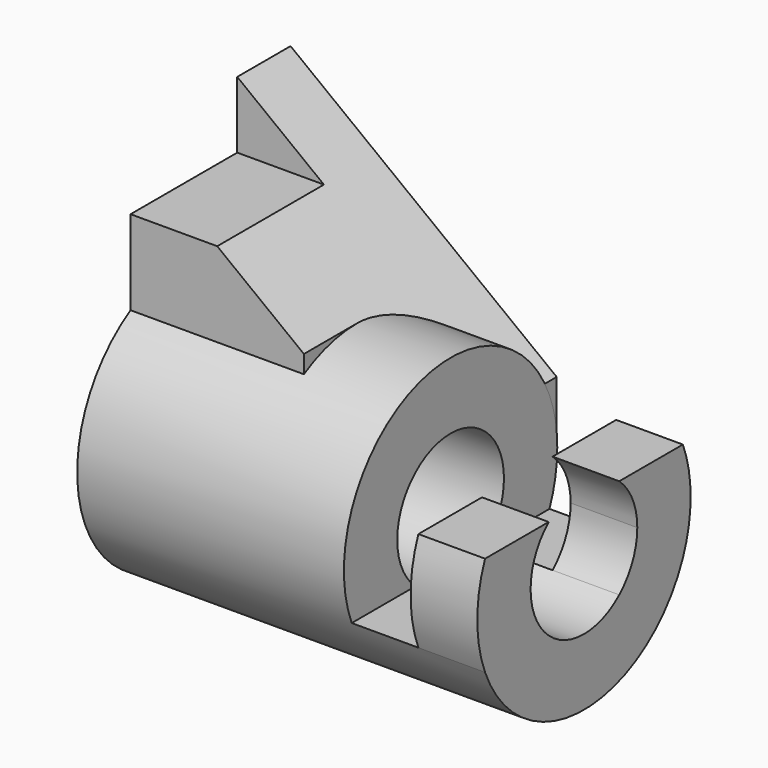
from build123d import *

# Parameters (mm, degrees)
F1_DEPTH = 50.8
F2_DEPTH = 63.5
F3_DEPTH = 33.02
F5_DEPTH = 50.801
F6_DEPTH = 50.8
F8_DEPTH = 12.7


with BuildPart() as f1:
    # F0 (on Right) → F1 (new body)
    with BuildSketch(Plane.YZ):
        with BuildLine():
            ThreePointArc((-8.4002604126, 9.525), (0, 12.7), (8.4002604126, 9.525))
            Line((8.4002604126, 9.525), (23.5464301965, 9.525))
            ThreePointArc((23.5464301965, 9.525), (8.2643354373, 24.017925801), (-12.7, 21.9970452561))
            ThreePointArc((-12.7, 21.9970452561), (-19.1660873346, 16.6679661712), (-23.5464301965, 9.525))
            Line((-23.5464301965, 9.525), (-8.4002604126, 9.525))
        make_face()
        with BuildLine():
            ThreePointArc((-8.4002604126, -9.525), (-12.7, 0), (-8.4002604126, 9.525))
            Line((-8.4002604126, 9.525), (-23.5464301965, 9.525))
            ThreePointArc((-23.5464301965, 9.525), (-25.4, 0), (-23.5464301965, -9.525))
            Line((-23.5464301965, -9.525), (-8.4002604126, -9.525))
        make_face()
    extrude(amount=F1_DEPTH)

    # F0 (on Right) → F2 (join)
    with BuildSketch(Plane.YZ):
        with BuildLine():
            Line((23.5464301965, -9.525), (8.4002604126, -9.525))
            ThreePointArc((8.4002604126, -9.525), (0, -12.7), (-8.4002604126, -9.525))
            Line((-8.4002604126, -9.525), (-23.5464301965, -9.525))
            ThreePointArc((-23.5464301965, -9.525), (0, -25.4), (23.5464301965, -9.525))
        make_face()
    extrude(amount=F2_DEPTH)

    # F0 (on Right) → F3 (join)
    with BuildSketch(Plane.YZ):
        with BuildLine():
            ThreePointArc((-12.7, 21.9970452561), (8.2643354373, 24.017925801), (23.5464301965, 9.525))
            ThreePointArc((23.5464301965, 9.525), (24.9323016085, 4.8518384664), (25.4, 0))
            Line((25.4, 0), (25.4, 50.8))
            Line((25.4, 50.8), (12.7, 50.8))
            Line((12.7, 50.8), (12.7, 38.1))
            Line((12.7, 38.1), (-12.7, 38.1))
            Line((-12.7, 38.1), (-12.7, 21.9970452561))
        make_face()
    extrude(amount=F3_DEPTH)

    # F4 (on face) → F5 (cut, through all)
    with BuildSketch(Plane(origin=(0, 25.4, 0), x_dir=(-1, 0, 0), z_dir=(0, 1, 0))):
        Polygon((-33.02, 50.8), (-33.02, 25.4), (0, 50.8), align=None)
    extrude(amount=-F5_DEPTH, mode=Mode.SUBTRACT)

    # F0 (on Right) → F6 (join)
    with BuildSketch(Plane.YZ):
        with BuildLine():
            Line((23.5464301965, -9.525), (8.4002604126, -9.525))
            ThreePointArc((8.4002604126, -9.525), (0, -12.7), (-8.4002604126, -9.525))
            Line((-8.4002604126, -9.525), (-23.5464301965, -9.525))
            ThreePointArc((-23.5464301965, -9.525), (0, -25.4), (23.5464301965, -9.525))
        make_face()
        with BuildLine():
            ThreePointArc((-8.4002604126, -9.525), (-12.7, 0), (-8.4002604126, 9.525))
            Line((-8.4002604126, 9.525), (-23.5464301965, 9.525))
            ThreePointArc((-23.5464301965, 9.525), (-25.4, 0), (-23.5464301965, -9.525))
            Line((-23.5464301965, -9.525), (-8.4002604126, -9.525))
        make_face()
        with BuildLine():
            ThreePointArc((8.4002604126, 9.525), (11.5752604126, 5.2252604126), (12.7, 0))
            ThreePointArc((12.7, 0), (11.5752604126, -5.2252604126), (8.4002604126, -9.525))
            Line((8.4002604126, -9.525), (23.5464301965, -9.525))
            ThreePointArc((23.5464301965, -9.525), (24.9323016085, -4.8518384664), (25.4, 0))
            ThreePointArc((25.4, 0), (24.9323016085, 4.8518384664), (23.5464301965, 9.525))
            Line((23.5464301965, 9.525), (8.4002604126, 9.525))
        make_face()
    extrude(amount=F6_DEPTH)

    # F7 (on face) → F8 (join)
    with BuildSketch(Plane.YZ.offset(63.5)):
        with BuildLine():
            Line((-8.4002604126, 9.525), (-23.5464301965, 9.525))
            ThreePointArc((-23.5464301965, 9.525), (-25.4, 0), (-23.5464301965, -9.525))
            Line((-23.5464301965, -9.525), (-8.4002604126, -9.525))
            ThreePointArc((-8.4002604126, -9.525), (-12.7, 0), (-8.4002604126, 9.525))
        make_face()
        with BuildLine():
            ThreePointArc((-23.5464301965, -9.525), (0, -25.4), (23.5464301965, -9.525))
            Line((23.5464301965, -9.525), (8.4002604126, -9.525))
            ThreePointArc((8.4002604126, -9.525), (0, -12.7), (-8.4002604126, -9.525))
            Line((-8.4002604126, -9.525), (-23.5464301965, -9.525))
        make_face()
        with BuildLine():
            ThreePointArc((23.5464301965, -9.525), (24.9323016085, -4.8518384664), (25.4, 0))
            ThreePointArc((25.4, 0), (24.9323016085, 4.8518384664), (23.5464301965, 9.525))
            Line((23.5464301965, 9.525), (8.4002604126, 9.525))
            ThreePointArc((8.4002604126, 9.525), (11.5752604126, 5.2252604126), (12.7, 0))
            ThreePointArc((12.7, 0), (11.5752604126, -5.2252604126), (8.4002604126, -9.525))
            Line((8.4002604126, -9.525), (23.5464301965, -9.525))
        make_face()
    extrude(amount=F8_DEPTH)

    # F9 (on face) → F10 (join, up to the next surface of F1)
    with BuildSketch(Plane(origin=(0, 25.4, 0), x_dir=(-1, 0, 0), z_dir=(0, 1, 0))):
        Polygon((-33.02, 0), (-33.02, 25.4), (-50.6857, 11.811), (-50.6857, 0), align=None)
    extrude(until=Until.NEXT, dir=(0, -1, 0))


solid = f1.part
